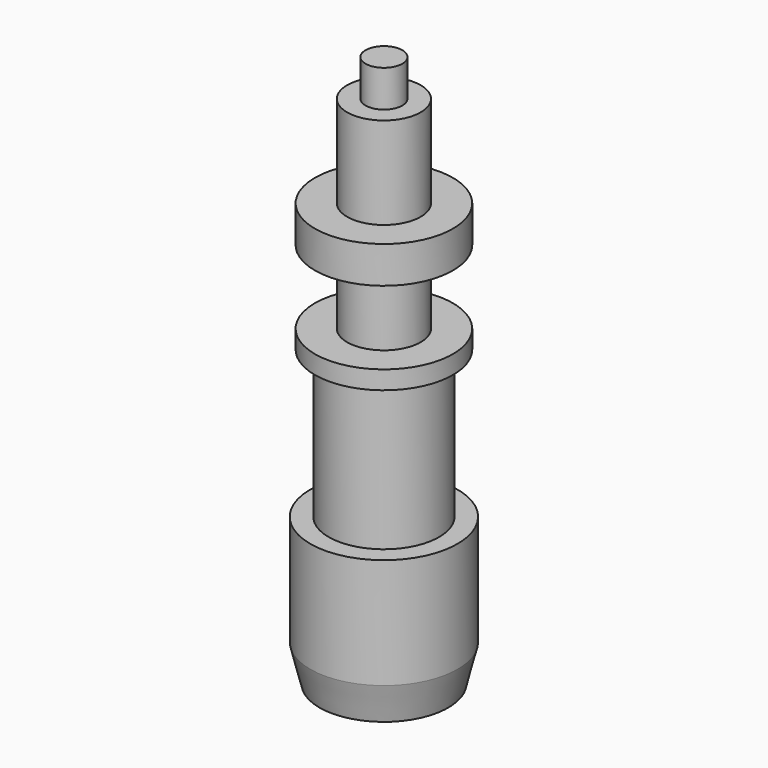
from build123d import *

# Parameters (mm, degrees)
CYLINDER020_R             = 2
CYLINDER020_DEPTH         = 28
CYLINDER021_R             = 3.75
CYLINDER021_DEPTH         = 2
CYLINDER022_R             = 3.75
CYLINDER022_DEPTH         = 1
CYLINDER023_R             = 3
CYLINDER023_DEPTH         = 8
CYLINDER024_R             = 4
CYLINDER024_DEPTH         = 6
CYLINDER025_R             = 1
CYLINDER025_DEPTH         = 2
FUSION044_PLACEMENT_ANGLE = 180


with BuildPart() as cylinder020:
    # Cylinder020 → Cylinder020 (new body)
    with BuildSketch(Plane.XY):
        Circle(CYLINDER020_R)
    extrude(amount=CYLINDER020_DEPTH)


with BuildPart() as cylinder021:
    # Cylinder021 → Cylinder021 (new body)
    with BuildSketch(Plane.XY.offset(5)):
        Circle(CYLINDER021_R)
    extrude(amount=CYLINDER021_DEPTH)


with BuildPart() as cylinder022:
    # Cylinder022 → Cylinder022 (new body)
    with BuildSketch(Plane.XY.offset(11)):
        Circle(CYLINDER022_R)
    extrude(amount=CYLINDER022_DEPTH)


with BuildPart() as cylinder023:
    # Cylinder023 → Cylinder023 (new body)
    with BuildSketch(Plane.XY.offset(12)):
        Circle(CYLINDER023_R)
    extrude(amount=CYLINDER023_DEPTH)


with BuildPart() as cylinder024:
    # Cylinder024 → Cylinder024 (new body)
    with BuildSketch(Plane.XY.offset(20)):
        Circle(CYLINDER024_R)
    extrude(amount=CYLINDER024_DEPTH)


with BuildPart() as fusion002:
    # Cone → Cone (revolve)
    with BuildSketch(Plane(origin=(0, 0, 26), x_dir=(1, 0, 0), z_dir=(0, -1, 0))):
        Polygon((0, 0), (4, 0), (3.5, 2), (0, 2), align=None)
    revolve(axis=Axis((0, 0, 26), (0, 0, 1)))

    # Fusion002: union Cylinder020, Cylinder021, Cylinder022, Cylinder023, Cylinder024
    add(cylinder020.part)
    add(cylinder021.part)
    add(cylinder022.part)
    add(cylinder023.part)
    add(cylinder024.part)


with BuildPart() as mic:
    # Cylinder025 → Cylinder025 (new body)
    with BuildSketch(Plane.XY.offset(-2)):
        Circle(CYLINDER025_R)
    extrude(amount=CYLINDER025_DEPTH)

    # Fusion044: union Fusion002
    add(fusion002.part)


with BuildPart() as mic_1:
    # Fusion044 placement: moved
    add(mic.part.moved(Location((0, -289, -301.5))).rotate(Axis((0, -289, -301.5), (0, -1, 0)), FUSION044_PLACEMENT_ANGLE))


solid = mic_1.part
